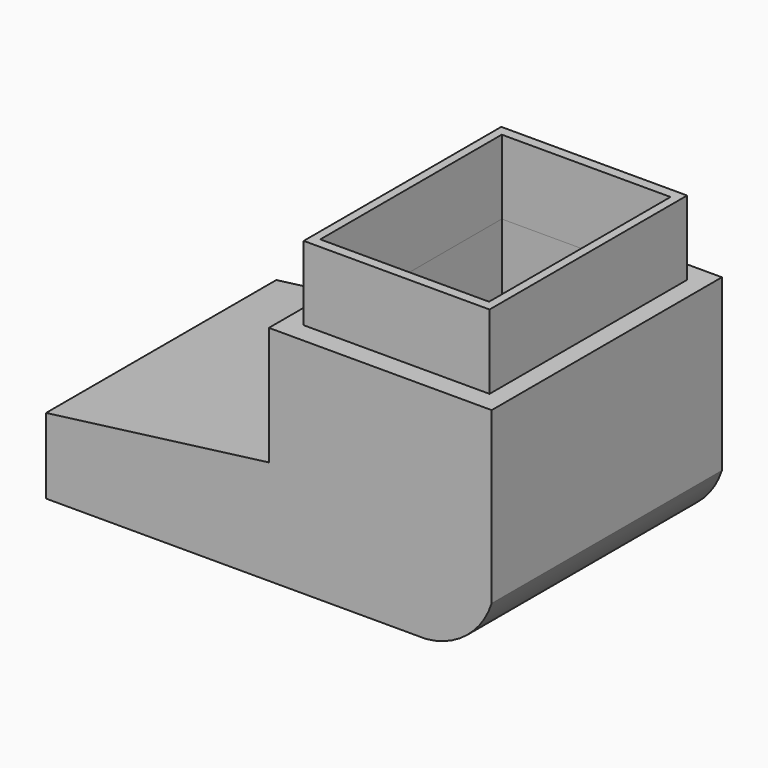
from build123d import *

# Parameters (mm, degrees)
F1_DEPTH = 19.685
F2_W     = 11.544244
F2_H     = 15.515834
F3_DEPTH = 13.97
F4_W     = 18.0848
F4_H     = 3.562237
F5_DEPTH = 27.686
F6_W     = 12.711847
F6_H     = 16.891
F6_W_2   = 11.544244
F6_H_2   = 15.515834
F7_DEPTH = 5.08
F8_W     = 0.4826
F8_H     = 3.562237
F9_DEPTH = 16.002


with BuildPart() as f1:
    # F0 (on Front) → F1 (new body)
    with BuildSketch(Plane.XZ):
        with BuildLine():
            Line((-69.68681, 5.162437), (-69.68681, 0))
            Line((-69.68681, 0), (-43.682389, 0))
            ThreePointArc((-43.682389, 0), (-40.906666, 1.137661), (-39.20681, 3.609381))
            Line((-39.20681, 3.609381), (-39.20681, 15.24))
            Line((-39.20681, 15.24), (-54.44681, 15.24))
            Line((-54.44681, 15.24), (-54.44681, 7.136006))
            Line((-54.44681, 7.136006), (-69.68681, 5.162437))
        make_face()
    extrude(amount=F1_DEPTH)

    # F2 (on face) → F3 (cut)
    with BuildSketch(Plane.XY.offset(15.24)):
        with Locations((-46.82681, -9.8425)):
            Rectangle(F2_W, F2_H)
    extrude(amount=-F3_DEPTH, mode=Mode.SUBTRACT)

    # F4 (on face) → F5 (cut)
    with BuildSketch(Plane(origin=(-69.68681, 0, 0), x_dir=(0, -1, 0), z_dir=(-1, 0, 0))):
        with Locations((9.8425, 2.581218)):
            Rectangle(F4_W, F4_H)
    extrude(amount=-F5_DEPTH, mode=Mode.SUBTRACT)

    # F8 (on face) → F9 (join)
    with BuildSketch(Plane(origin=(-69.68681, 0, 0), x_dir=(0, -1, 0), z_dir=(-1, 0, 0))):
        with Locations((5.6388, 2.581218)):
            Rectangle(F8_W, F8_H)
        with Locations((13.5636, 2.581218)):
            Rectangle(F8_W, F8_H)
    extrude(amount=-F9_DEPTH)


with BuildPart() as f7:
    # F6 (on face) → F7 (new body)
    with BuildSketch(Plane.XY.offset(15.24)):
        with Locations((-46.82681, -9.8425)):
            Rectangle(F6_W, F6_H)
        with Locations((-46.82681, -9.8425)):
            Rectangle(F6_W_2, F6_H_2, mode=Mode.SUBTRACT)
    extrude(amount=F7_DEPTH)


solid = Compound([f1.part, f7.part])
